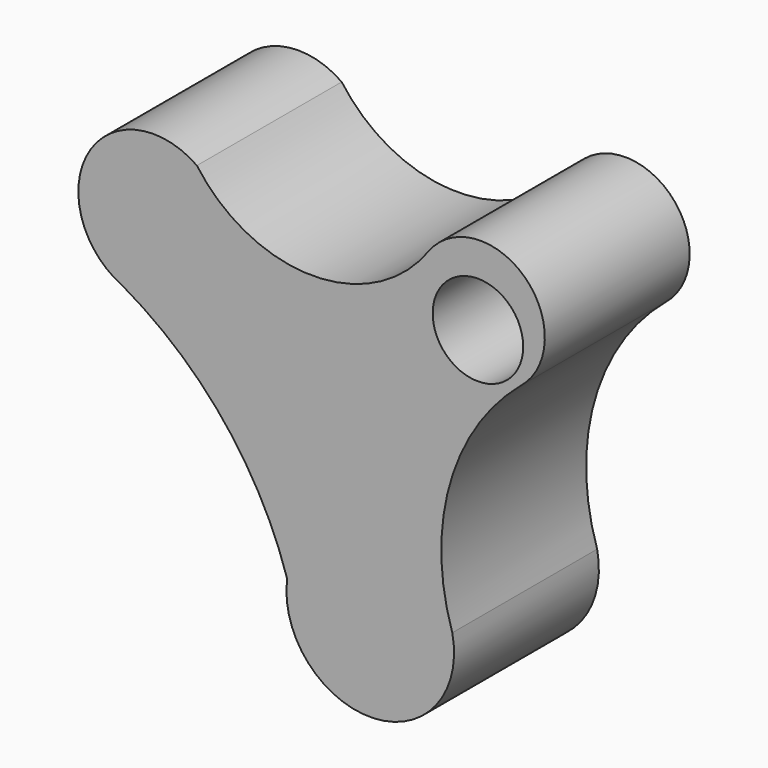
from build123d import *

# Parameters (mm, degrees)
F2_DEPTH = 25.4
F1_R     = 6.35
F3_DEPTH = 25.4
F4_DEPTH = 25.4


with BuildPart() as f2:
    # F0 (on Front) → F2 (new body)
    with BuildSketch(Plane.XZ):
        with BuildLine():
            ThreePointArc((-3.309767, 57.129443), (-19.570792, 48.808365), (-35.831816, 57.129443))
            ThreePointArc((-35.831816, 57.129443), (-51.061196, 53.756689), (-46.285682, 38.907315))
            ThreePointArc((-46.285682, 38.907315), (-32.008572, 26.752618), (-23.168363, 10.217104))
            ThreePointArc((-23.168363, 10.217104), (-11.073118, -3.064714), (0, 11.080521))
            ThreePointArc((0, 11.080521), (-0.335296, 29.39346), (9.641493, 44.753794))
            ThreePointArc((9.641493, 44.753794), (10.189797, 58.292246), (-3.309767, 57.129443))
        make_face()
    extrude(amount=F2_DEPTH)

    # F1 (on Front) → F3 (cut)
    with BuildSketch(Plane.XZ):
        with Locations((3.597573, 49.646493)):
            Circle(F1_R)
    extrude(amount=F3_DEPTH, mode=Mode.SUBTRACT)

    # F1 (on Front) → F4 (cut)
    with BuildSketch(Plane.XZ):
        with Locations((-41.875739, 48.49527)):
            Circle(F1_R)
    extrude(amount=-F4_DEPTH, mode=Mode.SUBTRACT)


solid = f2.part
